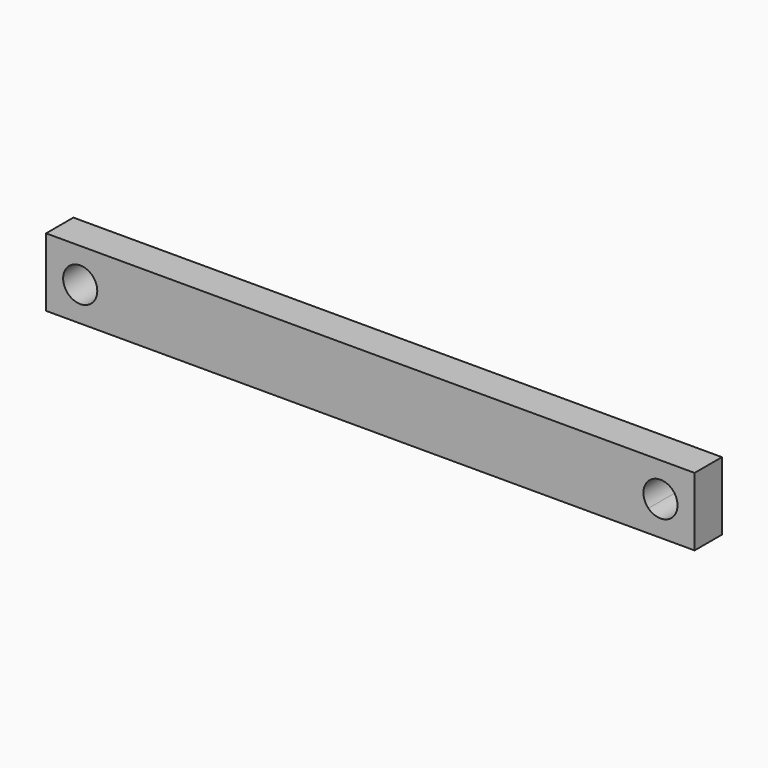
from build123d import *

# Parameters (mm, degrees)
F1_DEPTH = 25


with BuildPart() as f1:
    # F0 (on Front) → F1 (new body)
    with BuildSketch(Plane.XZ):
        with BuildLine():
            Line((-16.161165, -16.161165), (0, 0))
            Line((0, 0), (-475, 0))
            Line((-475, 0), (-458.838835, -16.161165))
            ThreePointArc((-458.838835, -16.161165), (-445.216457, -13.451506), (-437.5, -25))
            ThreePointArc((-437.5, -25), (-438.451506, -29.783543), (-441.161165, -33.838835))
            Line((-441.161165, -33.838835), (-425, -50))
            Line((-425, -50), (-50, -50))
            Line((-50, -50), (-33.838835, -33.838835))
            ThreePointArc((-33.838835, -33.838835), (-33.838835, -16.161165), (-16.161165, -16.161165))
        make_face()
        with BuildLine():
            Line((0, -50), (0, 0))
            Line((0, 0), (-16.161165, -16.161165))
            ThreePointArc((-16.161165, -16.161165), (-13.451506, -20.216457), (-12.5, -25))
            ThreePointArc((-12.5, -25), (-20.216457, -36.548494), (-33.838835, -33.838835))
            Line((-33.838835, -33.838835), (-50, -50))
            Line((-50, -50), (0, -50))
        make_face()
        with BuildLine():
            Line((-458.838835, -16.161165), (-475, 0))
            Line((-475, 0), (-475, -50))
            Line((-475, -50), (-425, -50))
            Line((-425, -50), (-441.161165, -33.838835))
            ThreePointArc((-441.161165, -33.838835), (-458.838835, -33.838835), (-458.838835, -16.161165))
        make_face()
    extrude(amount=F1_DEPTH)


solid = f1.part
